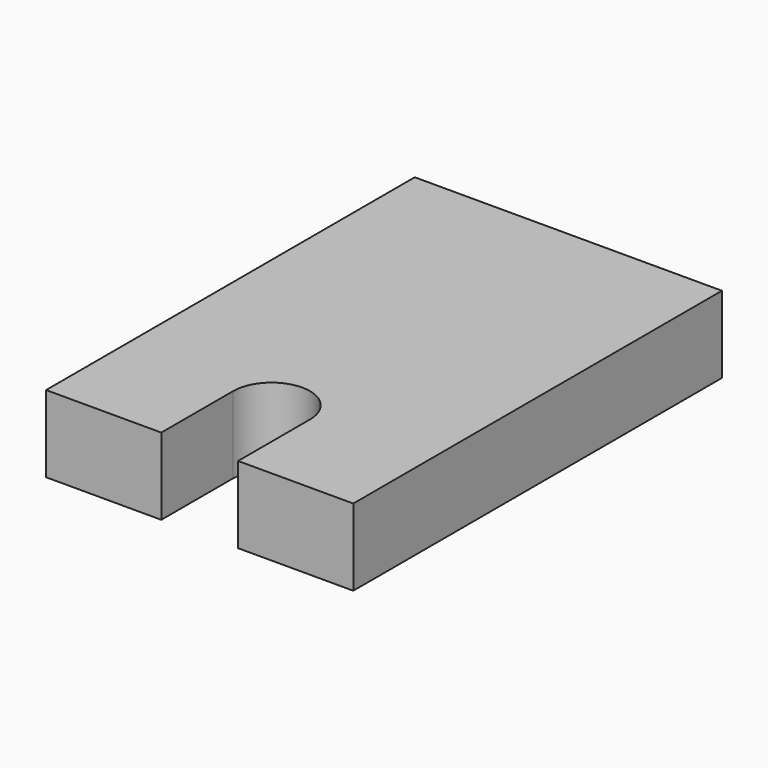
from build123d import *

# Parameters (mm, degrees)
F1_DEPTH = 406.4


with BuildPart() as f1:
    # F0 (on Top) → F1 (new body)
    with BuildSketch(Plane.XY):
        with BuildLine():
            Line((0, 2438.4), (0, 0))
            Line((0, 0), (609.6, 0))
            Line((609.6, 0), (609.6, 475.610614))
            ThreePointArc((609.6, 475.610614), (812.8, 678.810614), (1016, 475.610614))
            Line((1016, 475.610614), (1016, 0))
            Line((1016, 0), (1625.6, 0))
            Line((1625.6, 0), (1625.6, 2438.4))
            Line((1625.6, 2438.4), (0, 2438.4))
        make_face()
        with BuildLine():
            Line((0, 2438.4), (0, 0))
            Line((0, 0), (609.6, 0))
            Line((609.6, 0), (609.6, 475.610614))
            ThreePointArc((609.6, 475.610614), (812.8, 678.810614), (1016, 475.610614))
            Line((1016, 475.610614), (1016, 0))
            Line((1016, 0), (1625.6, 0))
            Line((1625.6, 0), (1625.6, 2438.4))
            Line((1625.6, 2438.4), (0, 2438.4))
        make_face()
    extrude(amount=F1_DEPTH)


solid = f1.part
